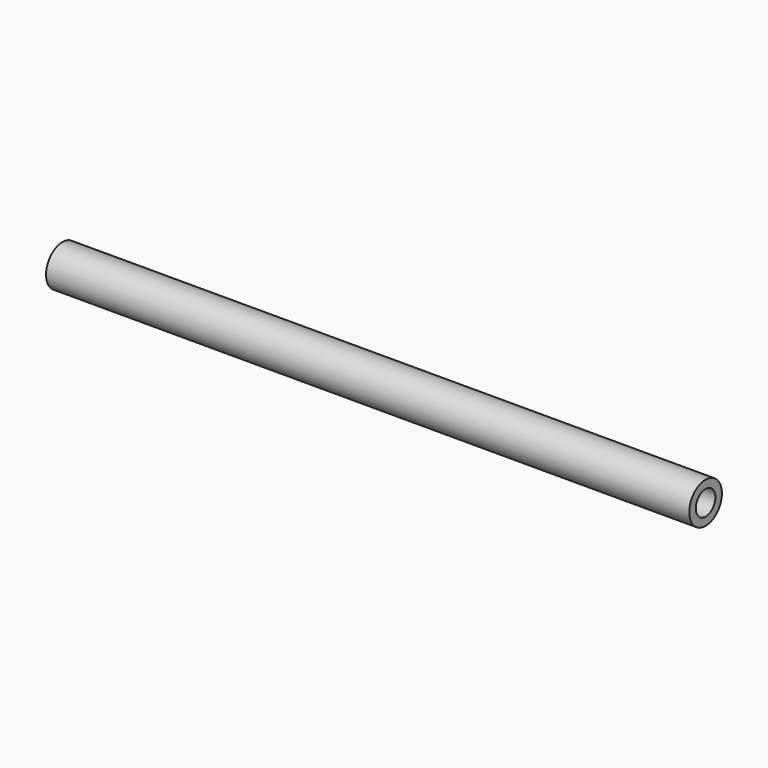
from build123d import *

# Parameters (mm, degrees)
F0_R     = 4.445
F0_R_2   = 2.663906
F1_DEPTH = 140


with BuildPart() as f1:
    # F0 (on Right) → F1 (new body)
    with BuildSketch(Plane.YZ):
        Circle(F0_R)
        Circle(F0_R_2, mode=Mode.SUBTRACT)
        Circle(F0_R)
        Circle(F0_R_2, mode=Mode.SUBTRACT)
    extrude(amount=F1_DEPTH)


solid = f1.part
